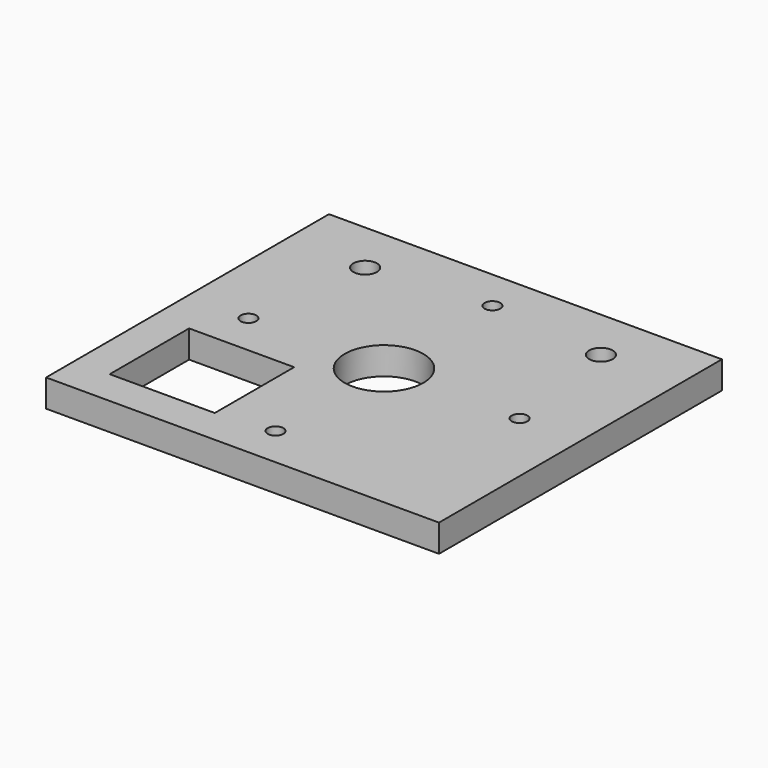
from build123d import *

# Parameters (mm, degrees)
F0_W     = 50
F0_H     = 45
F0_W_2   = 13.365347
F0_H_2   = 12.623919
F0_R     = 1
F0_R_2   = 1.5
F0_R_3   = 5
F1_DEPTH = 3.5


with BuildPart() as f1:
    # F0 (on Top) → F1 (new body)
    with BuildSketch(Plane.XY):
        Rectangle(F0_W, F0_H)
        with Locations((-13.817327, -11.68804)):
            Rectangle(F0_W_2, F0_H_2, mode=Mode.SUBTRACT)
        with Locations((0, -17.25)):
            Circle(F0_R, mode=Mode.SUBTRACT)
        with Locations((-17.25, 0)):
            Circle(F0_R, mode=Mode.SUBTRACT)
        with Locations((-15, 15.75)):
            Circle(F0_R_2, mode=Mode.SUBTRACT)
        Circle(F0_R_3, mode=Mode.SUBTRACT)
        with Locations((17.25, 0)):
            Circle(F0_R, mode=Mode.SUBTRACT)
        with Locations((0, 17.25)):
            Circle(F0_R, mode=Mode.SUBTRACT)
        with Locations((15, 15.75)):
            Circle(F0_R_2, mode=Mode.SUBTRACT)
    extrude(amount=F1_DEPTH)


solid = f1.part
